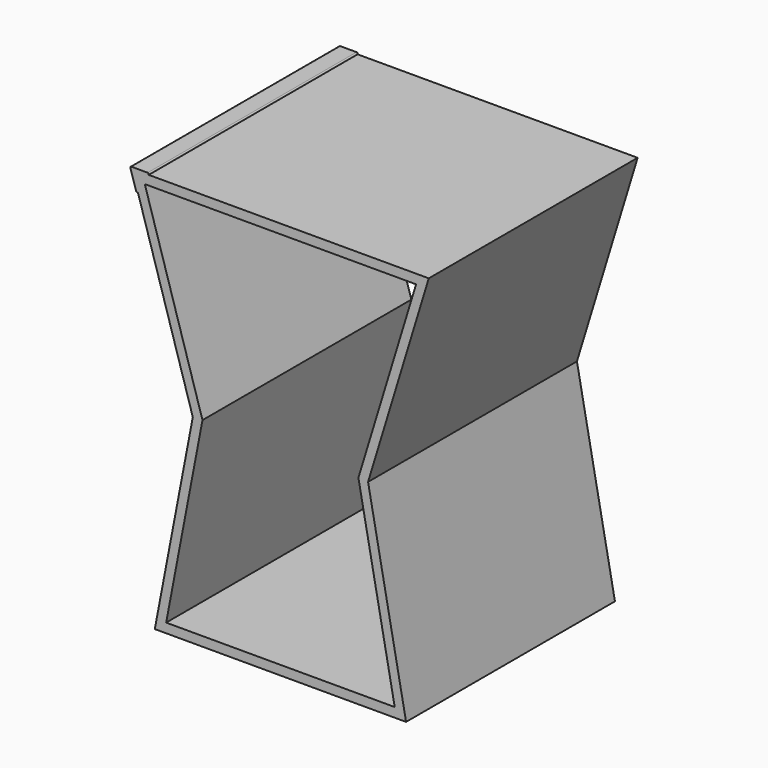
from build123d import *

# Parameters (mm, degrees)
F1_DEPTH = 500


with BuildPart() as f1:
    # F0 (on Front) → F1 (new body)
    with BuildSketch(Plane.XZ):
        Polygon((-252.215505, 381), (-284.065813, 381), (-278.574283, 363), (-273.035955, 344.846608), (-167.828424, 0), (-240.610838, -381), (240.610838, -381), (167.828424, 0), (284.065813, 381), align=None)
        Polygon((-149.312886, 0.994866), (-259.755226, 363), (259.755226, 363), (149.312886, 0.994866), (218.84681, -363), (-218.84681, -363), align=None, mode=Mode.SUBTRACT)
        with BuildLine():
            Line((-287.202322, 381), (-284.065813, 381))
            Line((-284.065813, 381), (-252.215505, 381))
            Line((-252.215505, 381), (-252.215505, 382))
            ThreePointArc((-252.215505, 382), (-252.801291, 383.414214), (-254.215505, 384))
            Line((-254.215505, 384), (-285.416401, 384))
            ThreePointArc((-285.416401, 384), (-287.023763, 383.19012), (-287.329356, 381.416386))
            Line((-287.329356, 381.416386), (-287.202322, 381))
        make_face()
        with BuildLine():
            Line((-278.574283, 363), (-284.065813, 381))
            Line((-284.065813, 381), (-287.202322, 381))
            Line((-287.202322, 381), (-276.489001, 345.884142))
            ThreePointArc((-276.489001, 345.884142), (-275.516032, 344.702416), (-273.992432, 344.554801))
            Line((-273.992432, 344.554801), (-273.035955, 344.846608))
            Line((-273.035955, 344.846608), (-278.574283, 363))
        make_face()
    extrude(amount=F1_DEPTH)


solid = f1.part
